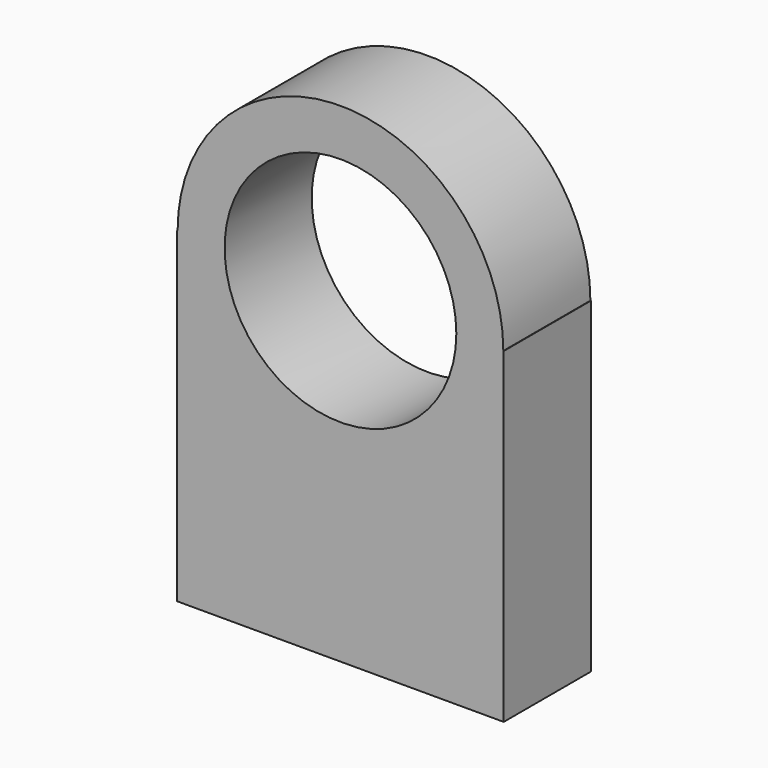
from build123d import *

# Parameters (mm, degrees)
F0_R     = 27.039572
F1_DEPTH = 25.4


with BuildPart() as f1:
    # F0 (on Front) → F1 (new body)
    with BuildSketch(Plane.XZ):
        with BuildLine():
            Line((-38.1, -38.1), (38.1, -38.1))
            Line((38.1, -38.1), (38.1, 38.1))
            Line((38.1, 38.1), (38.005557, 38.1))
            ThreePointArc((38.005557, 38.1), (0, 76.105557), (-38.005557, 38.1))
            Line((-38.005557, 38.1), (-38.1, 38.1))
            Line((-38.1, 38.1), (-38.1, -38.1))
        make_face()
        with Locations((0, 38.1)):
            Circle(F0_R, mode=Mode.SUBTRACT)
    extrude(amount=F1_DEPTH)


solid = f1.part
